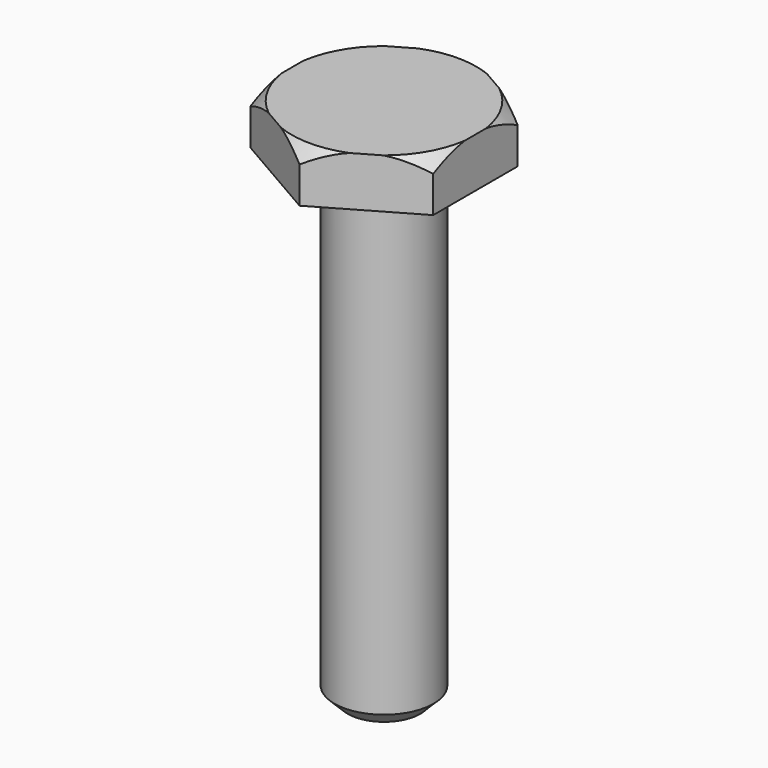
from build123d import *

# Parameters (mm, degrees)
F2_R     = 12.7
F3_DEPTH = 4.7625
F4_SIZE  = 1.27


with BuildPart() as f1:
    # F0 (on Front) → F1 (revolve)
    with BuildSketch(Plane.XZ):
        Polygon((-4.7625, 0), (0, 0), (0, 50.8), (-10.16, 50.8), (-10.16, 46.0375), (-4.7625, 46.0375), align=None)
    revolve(axis=Axis((0, 0, 25.4), (0, 0, -1)))

    # F2 (on face) → F3 (cut, through all)
    with BuildSketch(Plane.XY.offset(50.8)):
        Circle(F2_R)
        Polygon((-8.798818, 5.08), (0, 10.16), (8.798818, 5.08), (8.798818, -5.08), (0, -10.16), (-8.798818, -5.08), align=None, mode=Mode.SUBTRACT)
    extrude(amount=-F3_DEPTH, mode=Mode.SUBTRACT)

    # F4
    f4_edges = [f1.edges().sort_by_distance(p)[0] for p in [
        (4.7625, 0, 0),
    ]]
    chamfer(f4_edges, length=F4_SIZE)

    # F5 (on Right) → F6 (revolve, cut)
    with BuildSketch(Plane.YZ):
        Polygon((8.89, 50.8), (10.16, 49.53), (10.16, 50.8), align=None)
    revolve(axis=Axis((0, 0, 27.040424), (0, 0, 1)), mode=Mode.SUBTRACT)


solid = f1.part
